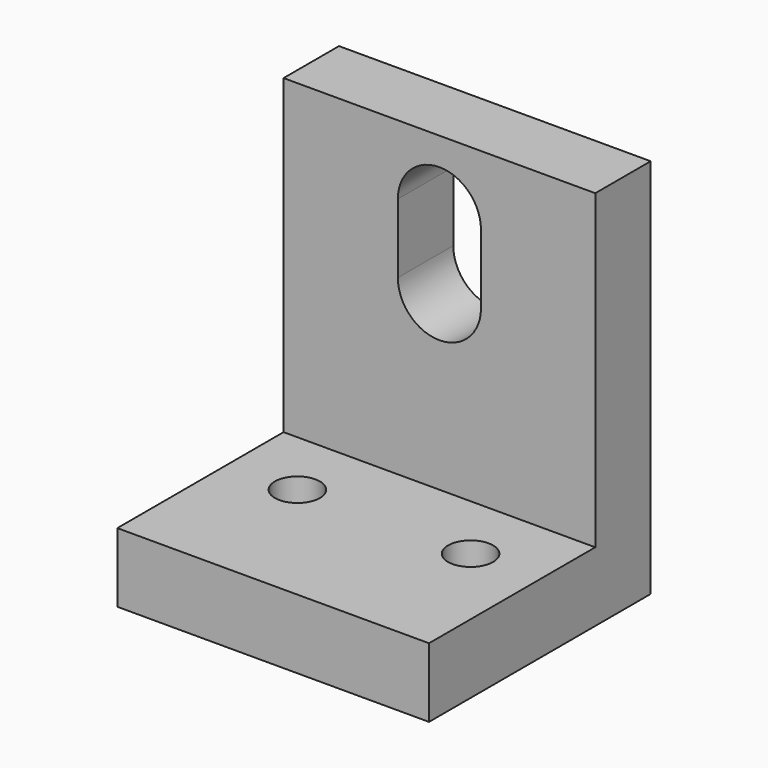
from build123d import *

# Parameters (mm, degrees)
F0_W     = 45
F0_H     = 55
F1_DEPTH = 10
F2_W     = 45
F2_H     = 10
F3_DEPTH = 30
F4_W     = 12
F4_H     = 10
F5_DEPTH = 10
F7_D     = 12
F7_DEPTH = 16
F9_D     = 6.5
F9_DEPTH = 10


with BuildPart() as f1:
    # F0 (on Front) → F1 (new body)
    with BuildSketch(Plane.XZ):
        Rectangle(F0_W, F0_H)
    extrude(amount=F1_DEPTH)

    # F2 (on face) → F3 (join)
    with BuildSketch(Plane.XZ.offset(10)):
        with Locations((0, -22.5)):
            Rectangle(F2_W, F2_H)
    extrude(amount=F3_DEPTH)

    # F4 (on face) → F5 (cut)
    with BuildSketch(Plane.XZ.offset(10)):
        with Locations((0, 12.5)):
            Rectangle(F4_W, F4_H)
    extrude(amount=-F5_DEPTH, mode=Mode.SUBTRACT)

    # F7
    with Locations(Plane.XZ.offset(10)):
        with Locations((0, 17.5), (0, 7.5)):
            Hole(F7_D / 2, depth=F7_DEPTH)

    # F9
    with Locations(Plane(origin=(0, 0, -27.5), x_dir=(1, 0, 0), z_dir=(0, 0, -1))):
        with Locations((-12.5, 20), (12.5, 20)):
            Hole(F9_D / 2, depth=F9_DEPTH)


solid = f1.part
